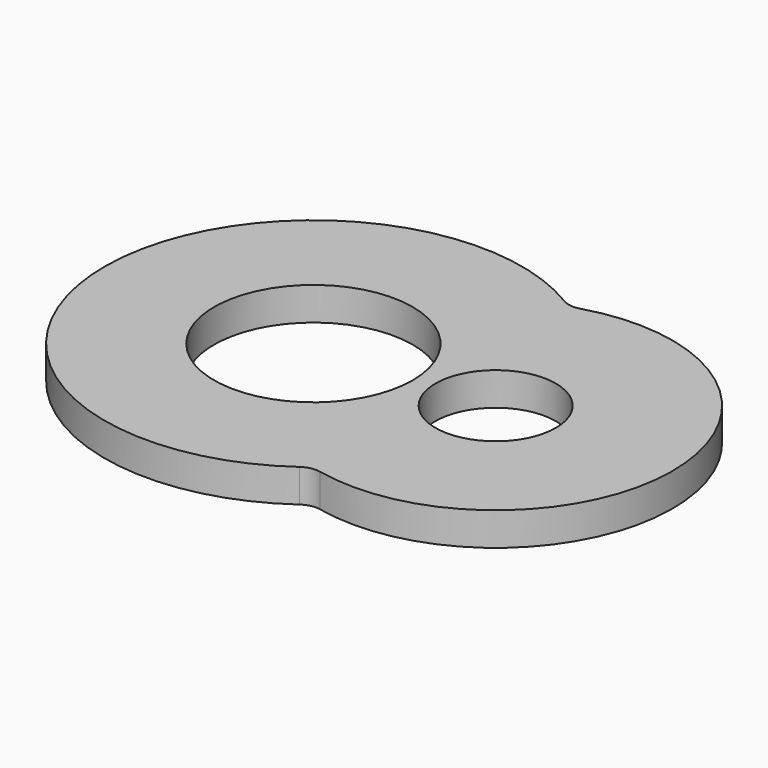
from build123d import *

# Parameters (mm, degrees)
F0_R     = 228.310665
F0_R_2   = 138.338996
F1_DEPTH = 38.1


with BuildPart() as f1:
    # F0 (on Top) → F1 (new body, symmetric)
    with BuildSketch(Plane.XY):
        with BuildLine():
            ThreePointArc((20.318276, 7.989983), (-0.684361, 6.251495), (-20.58523, 13.186084))
            ThreePointArc((-20.58523, 13.186084), (-748.716462, -416.32587), (10.921128, -787.279158))
            ThreePointArc((10.921128, -787.279158), (30.215383, -778.801847), (51.289688, -778.884184))
            ThreePointArc((51.289688, -778.884184), (543.471748, -365.465268), (20.318276, 7.989983))
        make_face()
        with Locations((-269.105546, -397.448357)):
            Circle(F0_R, mode=Mode.SUBTRACT)
        with Locations((137.183101, -381.456813)):
            Circle(F0_R_2, mode=Mode.SUBTRACT)
    extrude(amount=F1_DEPTH, both=True)


solid = f1.part
